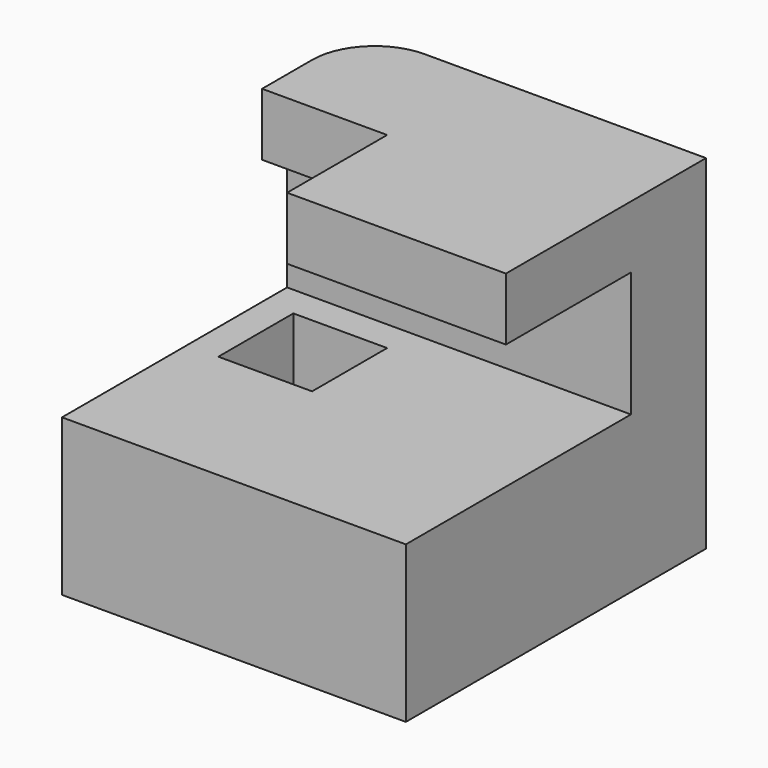
from build123d import *

# Parameters (mm, degrees)
F0_W     = 55
F0_H     = 60
F1_DEPTH = 55
F3_DEPTH = 55.001
F4_R     = 10
F5_W     = 20
F5_H     = 20
F6_DEPTH = 10
F7_W     = 15
F7_H     = 15
F8_DEPTH = 25.001


with BuildPart() as f1:
    # F0 (on Top) → F1 (new body)
    with BuildSketch(Plane.XY):
        with Locations((27.5, 30)):
            Rectangle(F0_W, F0_H)
    extrude(amount=F1_DEPTH)

    # F2 (on face) → F3 (cut, through all)
    with BuildSketch(Plane.YZ.offset(55)):
        Polygon((20, 55), (0, 55), (0, 25), (45, 25), (45, 45), (20, 45), align=None)
    extrude(amount=-F3_DEPTH, mode=Mode.SUBTRACT)

    # F4
    f4_edges = [f1.edges().sort_by_distance(p)[0] for p in [
        (0, 60, 27.5),
    ]]
    fillet(f4_edges, radius=F4_R)

    # F5 (on face) → F6 (cut, through all)
    with BuildSketch(Plane.XY.offset(55)):
        with Locations((10, 30)):
            Rectangle(F5_W, F5_H)
    extrude(amount=-F6_DEPTH, mode=Mode.SUBTRACT)

    # F7 (on face) → F8 (cut, through all)
    with BuildSketch(Plane.XY.offset(25)):
        with Locations((12.5, 32.5)):
            Rectangle(F7_W, F7_H)
    extrude(amount=-F8_DEPTH, mode=Mode.SUBTRACT)


solid = f1.part
